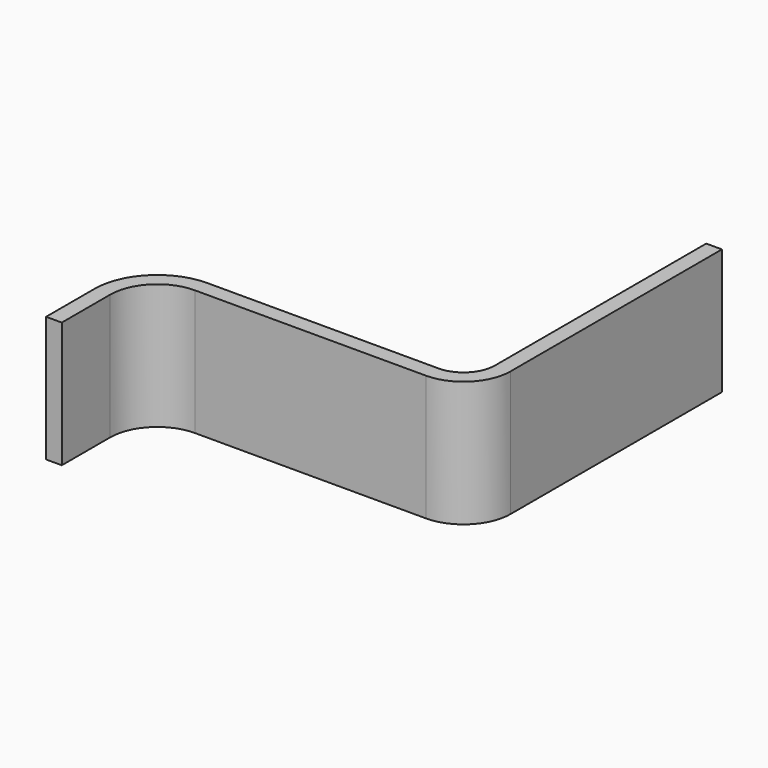
from build123d import *

# Parameters (mm, degrees)
F1_DEPTH = 40


with BuildPart() as f1:
    # F0 (on Top) → F1 (new body)
    with BuildSketch(Plane.XY):
        with BuildLine():
            Line((0, 19.229688), (0, 0))
            Line((0, 0), (5, 0))
            Line((5, 0), (5, 19.229688))
            ThreePointArc((5, 19.229688), (9.393398, 29.836289), (20, 34.229688))
            Line((20, 34.229688), (93.523487, 34.229688))
            ThreePointArc((93.523487, 34.229688), (104.130089, 38.623086), (108.523487, 49.229688))
            Line((108.523487, 49.229688), (108.523487, 133.286635))
            Line((108.523487, 133.286635), (103.523487, 133.286635))
            Line((103.523487, 133.286635), (103.523487, 49.229688))
            ThreePointArc((103.523487, 49.229688), (100.594555, 42.15862), (93.523487, 39.229688))
            Line((93.523487, 39.229688), (20, 39.229688))
            ThreePointArc((20, 39.229688), (5.857864, 33.371823), (0, 19.229688))
        make_face()
        with BuildLine():
            Line((0, 19.229688), (0, 0))
            Line((0, 0), (5, 0))
            Line((5, 0), (5, 19.229688))
            ThreePointArc((5, 19.229688), (9.393398, 29.836289), (20, 34.229688))
            Line((20, 34.229688), (93.523487, 34.229688))
            ThreePointArc((93.523487, 34.229688), (104.130089, 38.623086), (108.523487, 49.229688))
            Line((108.523487, 49.229688), (108.523487, 133.286635))
            Line((108.523487, 133.286635), (103.523487, 133.286635))
            Line((103.523487, 133.286635), (103.523487, 49.229688))
            ThreePointArc((103.523487, 49.229688), (100.594555, 42.15862), (93.523487, 39.229688))
            Line((93.523487, 39.229688), (20, 39.229688))
            ThreePointArc((20, 39.229688), (5.857864, 33.371823), (0, 19.229688))
        make_face()
    extrude(amount=F1_DEPTH)


solid = f1.part
